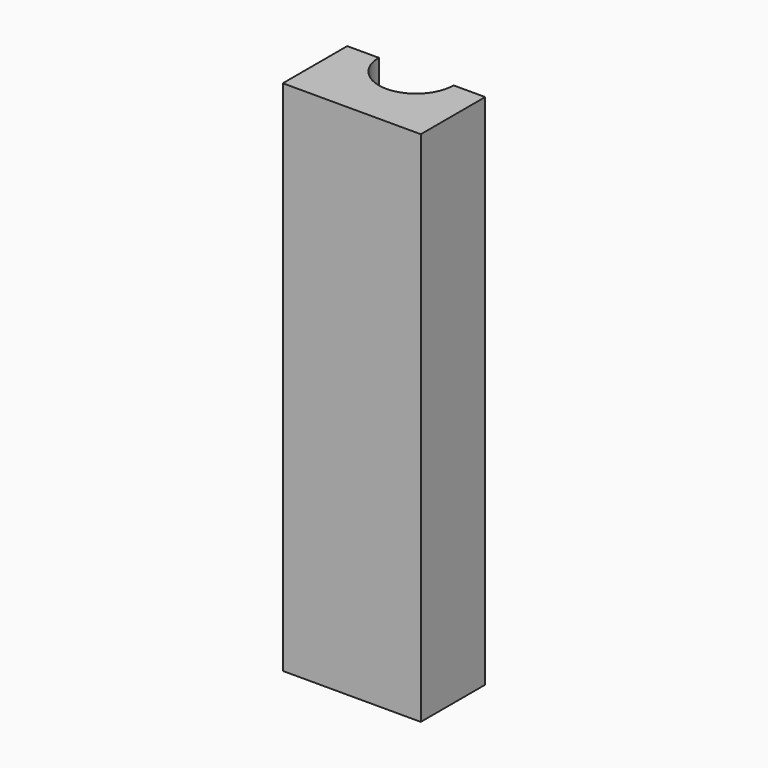
from build123d import *

# Parameters (mm, degrees)
F0_W     = 12
F0_H     = 45
F1_DEPTH = 7
F2_R     = 3.25
F3_DEPTH = 45.001


with BuildPart() as f1:
    # F0 (on Front) → F1 (new body)
    with BuildSketch(Plane.XZ):
        Rectangle(F0_W, F0_H)
    extrude(amount=F1_DEPTH)

    # F2 (on face) → F3 (cut, through all)
    with BuildSketch(Plane.XY.offset(22.5)):
        Circle(F2_R)
    extrude(amount=-F3_DEPTH, mode=Mode.SUBTRACT)


solid = f1.part
